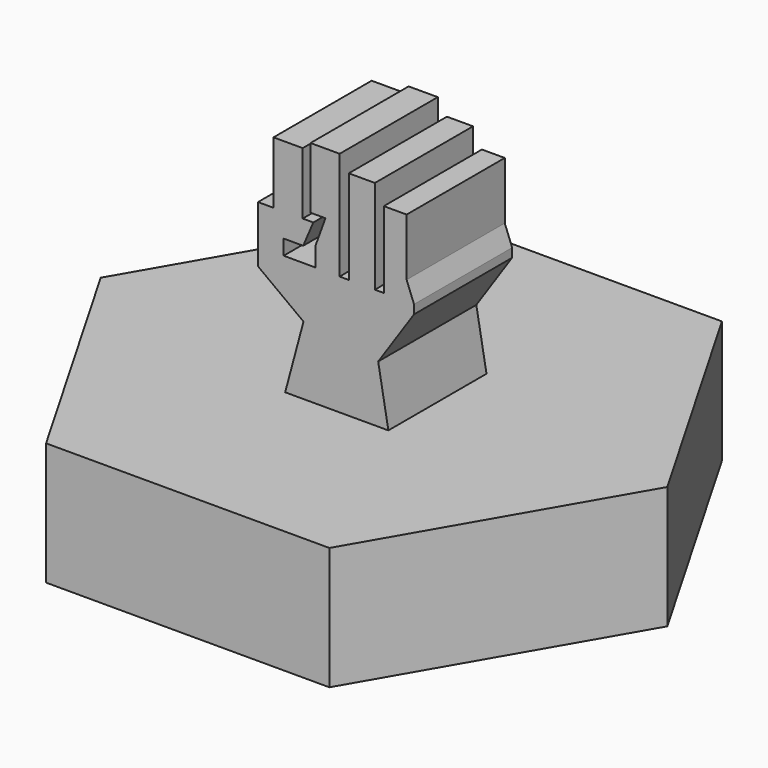
from build123d import *

# Parameters (mm, degrees)
F1_DEPTH = 6.35
F2_W     = 1.511026
F2_H     = 3.209948
F3_DEPTH = 3.175


with BuildPart() as f1:
    # F0 (on Top) → F1 (new body)
    with BuildSketch(Plane.XY):
        Polygon((7.332348, 12.7), (-7.332348, 12.7), (-14.664697, 0), (-7.332348, -12.7), (7.332348, -12.7), (14.664697, 0), align=None)
    extrude(amount=F1_DEPTH)

    # F2 (on Front) → F3 (join, symmetric)
    with BuildSketch(Plane.XZ):
        Polygon((-1.626491, 9.881394), (-2.575275, 6.35), (2.766025, 6.35), (2.238923, 9.319152), (4.0937, 12.070374), (4.0937, 12.530059), (2.528287, 12.534512), (2.068602, 12.535819), (0.716946, 12.539664), (0.243291, 12.541012), (-1.001111, 12.544552), (-2.652288, 12.549249), (-2.652288, 13.330583), (-1.643171, 13.330583), (-1.120203, 14.561935), (-1.668773, 14.561935), (-3.179799, 14.561935), (-3.981936, 14.561935), (-3.981936, 11.632923), align=None)
        with Locations((-2.424286, 16.166909)):
            Rectangle(F2_W, F2_H)
        Polygon((2.528287, 12.534512), (4.0937, 12.530059), (3.711282, 13.521653), (3.711282, 16.493287), (2.528287, 16.493287), align=None)
        Polygon((0.716946, 12.539664), (2.068602, 12.535819), (2.068602, 17.400391), (0.716946, 17.400391), align=None)
        Polygon((-1.001111, 12.544552), (0.243291, 12.541012), (0.243291, 18.136316), (-1.264662, 18.136316), (-1.264662, 14.960672), (-0.491579, 14.960672), (-1.001111, 13.555067), align=None)
    extrude(amount=F3_DEPTH, both=True)


solid = f1.part
